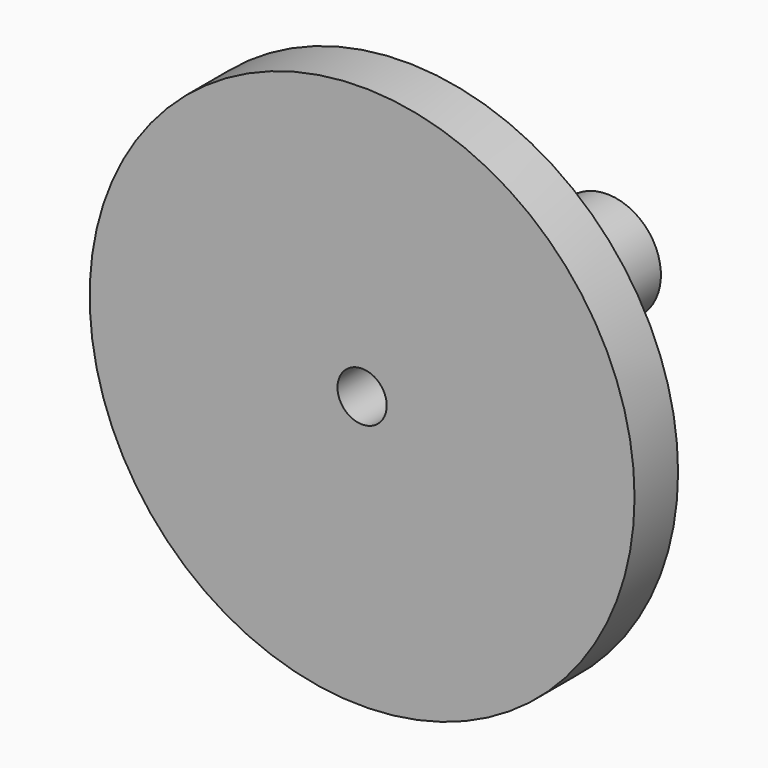
from build123d import *

# Parameters (mm, degrees)
F0_R     = 27.047238
F1_DEPTH = 5.4
F2_R     = 5.341981
F3_DEPTH = 25
F4_R     = 2.441964
F5_DEPTH = 48.8


with BuildPart() as f1:
    # F0 (on Front) → F1 (new body)
    with BuildSketch(Plane.XZ):
        Circle(F0_R)
    extrude(amount=F1_DEPTH)

    # F2 (on face) → F3 (join)
    with BuildSketch(Plane(origin=(0, 0, 0), x_dir=(-1, 0, 0), z_dir=(0, 1, 0))):
        Circle(F2_R)
    extrude(amount=F3_DEPTH)

    # F4 (on face) → F5 (cut, symmetric)
    with BuildSketch(Plane(origin=(0, 25, 0), x_dir=(-1, 0, 0), z_dir=(0, 1, 0))):
        Circle(F4_R)
    extrude(amount=F5_DEPTH, both=True, mode=Mode.SUBTRACT)


solid = f1.part
